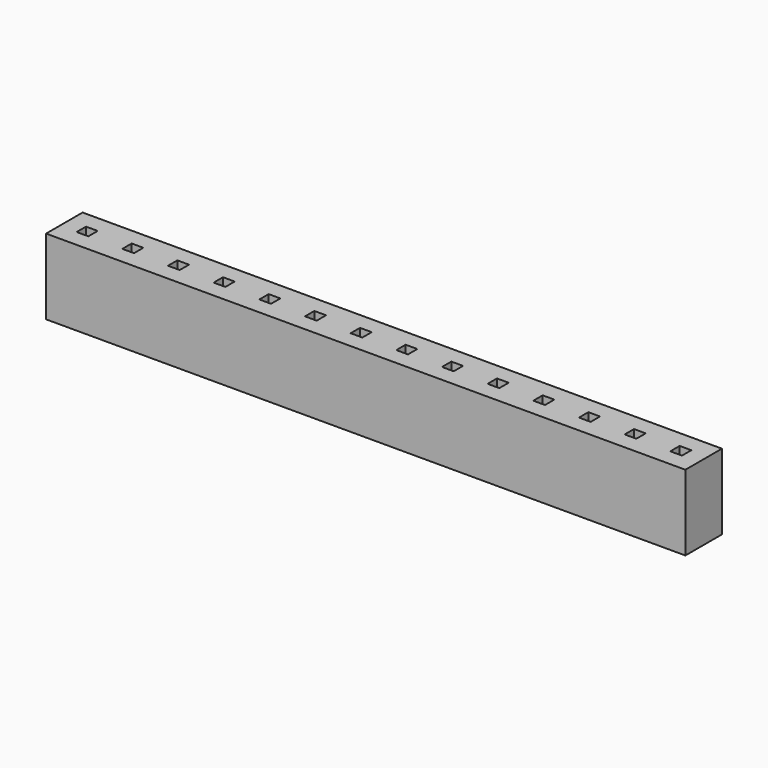
from build123d import *

# Parameters (mm, degrees)
F0_W     = 0.65
F0_H     = 0.65
F1_DEPTH = 4.2


with BuildPart() as f1:
    # F0 (on Top) → F1 (new body)
    with BuildSketch(Plane.XY):
        Polygon((-71.271986, 0), (-68.731986, 0), (-68.731986, 0.4), (-68.731986, 1.6), (-68.731986, 2.54), (-71.271986, 2.54), align=None)
        with Locations((-70.001986, 1.27)):
            Rectangle(F0_W, F0_H, mode=Mode.SUBTRACT)
        Polygon((-68.731986, 0.4), (-68.731986, 0), (-66.191986, 0), (-66.191986, 0.4), (-66.191986, 1.6), (-66.191986, 2.54), (-68.731986, 2.54), (-68.731986, 1.6), align=None)
        with Locations((-67.461986, 1.27)):
            Rectangle(F0_W, F0_H, mode=Mode.SUBTRACT)
        Polygon((-66.191986, 0.4), (-66.191986, 0), (-63.651986, 0), (-63.651986, 0.4), (-63.651986, 1.6), (-63.651986, 2.54), (-66.191986, 2.54), (-66.191986, 1.6), align=None)
        with Locations((-64.921986, 1.27)):
            Rectangle(F0_W, F0_H, mode=Mode.SUBTRACT)
        Polygon((-63.651986, 0.4), (-63.651986, 0), (-61.111986, 0), (-61.111986, 0.4), (-61.111986, 1.6), (-61.111986, 2.54), (-63.651986, 2.54), (-63.651986, 1.6), align=None)
        with Locations((-62.381986, 1.27)):
            Rectangle(F0_W, F0_H, mode=Mode.SUBTRACT)
        Polygon((-61.111986, 0.4), (-61.111986, 0), (-58.571986, 0), (-58.571986, 0.4), (-58.571986, 1.6), (-58.571986, 2.54), (-61.111986, 2.54), (-61.111986, 1.6), align=None)
        with Locations((-59.841986, 1.27)):
            Rectangle(F0_W, F0_H, mode=Mode.SUBTRACT)
        Polygon((-58.571986, 0.4), (-58.571986, 0), (-56.031986, 0), (-56.031986, 0.4), (-56.031986, 1.6), (-56.031986, 2.54), (-58.571986, 2.54), (-58.571986, 1.6), align=None)
        with Locations((-57.301986, 1.27)):
            Rectangle(F0_W, F0_H, mode=Mode.SUBTRACT)
        Polygon((-56.031986, 0.4), (-56.031986, 0), (-53.491986, 0), (-53.491986, 0.4), (-53.491986, 1.6), (-53.491986, 2.54), (-56.031986, 2.54), (-56.031986, 1.6), align=None)
        with Locations((-54.761986, 1.27)):
            Rectangle(F0_W, F0_H, mode=Mode.SUBTRACT)
        Polygon((-53.491986, 0.4), (-53.491986, 0), (-50.951986, 0), (-50.951986, 0.4), (-50.951986, 1.6), (-50.951986, 2.54), (-53.491986, 2.54), (-53.491986, 1.6), align=None)
        with Locations((-52.221986, 1.27)):
            Rectangle(F0_W, F0_H, mode=Mode.SUBTRACT)
        Polygon((-50.951986, 0.4), (-50.951986, 0), (-48.411986, 0), (-48.411986, 0.4), (-48.411986, 1.6), (-48.411986, 2.54), (-50.951986, 2.54), (-50.951986, 1.6), align=None)
        with Locations((-49.681986, 1.27)):
            Rectangle(F0_W, F0_H, mode=Mode.SUBTRACT)
        Polygon((-48.411986, 0.4), (-48.411986, 0), (-45.871986, 0), (-45.871986, 0.4), (-45.871986, 1.6), (-45.871986, 2.54), (-48.411986, 2.54), (-48.411986, 1.6), align=None)
        with Locations((-47.141986, 1.27)):
            Rectangle(F0_W, F0_H, mode=Mode.SUBTRACT)
        Polygon((-45.871986, 0.4), (-45.871986, 0), (-43.331986, 0), (-43.331986, 0.4), (-43.331986, 1.6), (-43.331986, 2.54), (-45.871986, 2.54), (-45.871986, 1.6), align=None)
        with Locations((-44.601986, 1.27)):
            Rectangle(F0_W, F0_H, mode=Mode.SUBTRACT)
        Polygon((-43.331986, 0.4), (-43.331986, 0), (-40.791986, 0), (-40.791986, 0.4), (-40.791986, 1.6), (-40.791986, 2.54), (-43.331986, 2.54), (-43.331986, 1.6), align=None)
        with Locations((-42.061986, 1.27)):
            Rectangle(F0_W, F0_H, mode=Mode.SUBTRACT)
        Polygon((-40.791986, 0.4), (-40.791986, 0), (-38.251986, 0), (-38.251986, 0.4), (-38.251986, 1.6), (-38.251986, 2.54), (-40.791986, 2.54), (-40.791986, 1.6), align=None)
        with Locations((-39.521986, 1.27)):
            Rectangle(F0_W, F0_H, mode=Mode.SUBTRACT)
        Polygon((-38.251986, 0.4), (-38.251986, 0), (-35.711986, 0), (-35.711986, 0.4), (-35.711986, 1.6), (-35.711986, 2.54), (-38.251986, 2.54), (-38.251986, 1.6), align=None)
        with Locations((-36.981986, 1.27)):
            Rectangle(F0_W, F0_H, mode=Mode.SUBTRACT)
    extrude(amount=F1_DEPTH)


solid = f1.part
